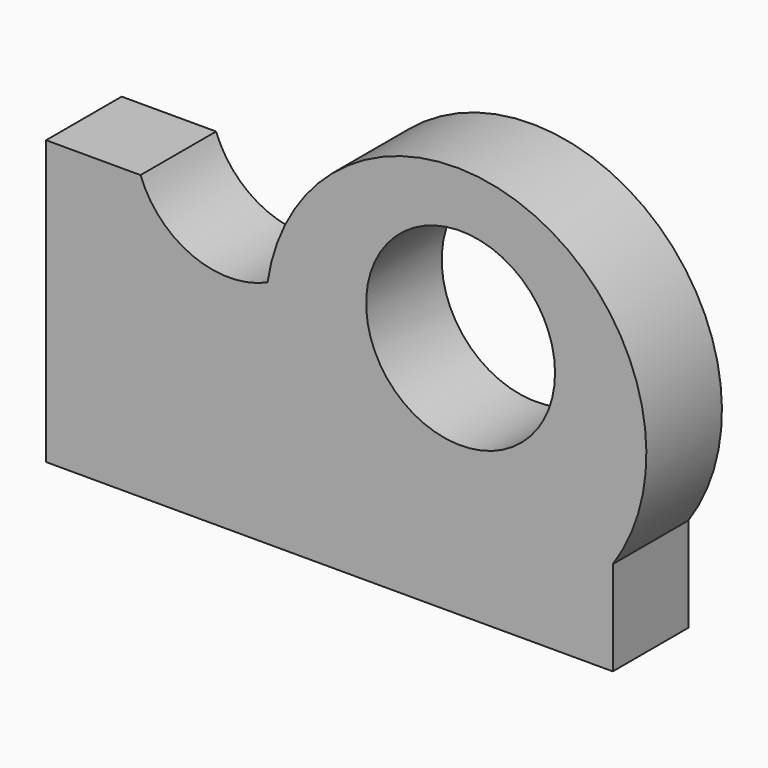
from build123d import *

# Parameters (mm, degrees)
F1_DEPTH = 10
F2_R     = 10
F3_DEPTH = 10


with BuildPart() as f1:
    # F0 (on Front) → F1 (new body)
    with BuildSketch(Plane.XZ):
        Polygon((0, 10), (0, 0), (60, 0), (60, 10), (26.784621, 10), align=None)
        with BuildLine():
            ThreePointArc((23.443592, 24.368972), (23.75282, 16.867964), (26.784621, 10))
            Line((26.784621, 10), (60, 10))
            ThreePointArc((60, 10), (50.768452, 40.200275), (23.443592, 24.368972))
        make_face()
        with BuildLine():
            Line((0, 30), (0, 10))
            Line((0, 10), (26.784621, 10))
            ThreePointArc((26.784621, 10), (23.75282, 16.867964), (23.443592, 24.368972))
            ThreePointArc((23.443592, 24.368972), (15.503914, 24.276899), (10, 30))
            Line((10, 30), (0, 30))
        make_face()
    extrude(amount=F1_DEPTH)

    # F2 (on face) → F3 (cut)
    with BuildSketch(Plane.XZ.offset(10)):
        with Locations((43.884981, 25.819998)):
            Circle(F2_R)
    extrude(amount=-F3_DEPTH, mode=Mode.SUBTRACT)


solid = f1.part
